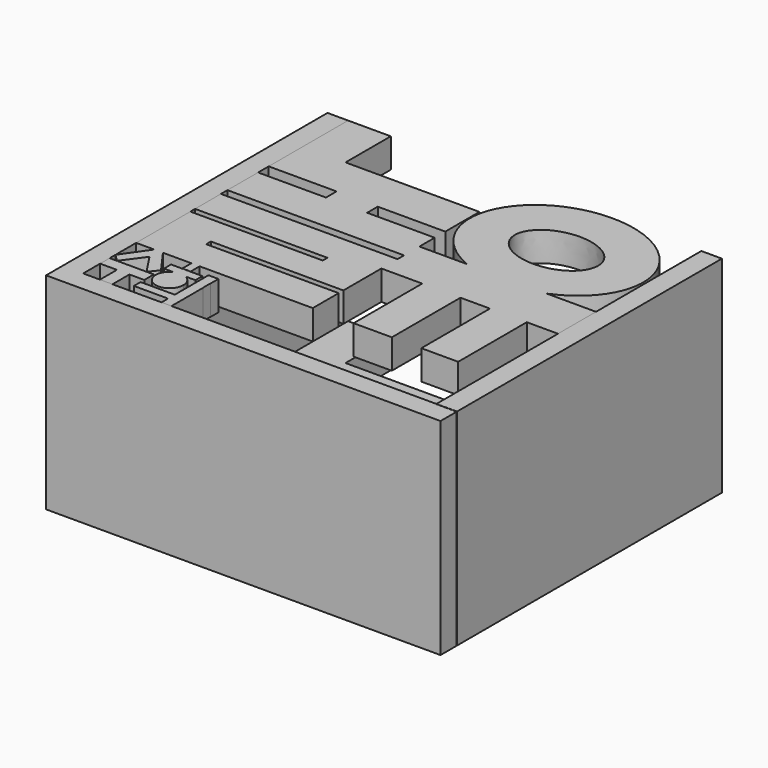
from build123d import *

# Parameters (mm, degrees)
F1_START = 25
F0_W     = 2.8042644262
F0_H     = 3.8227754831
F1_DEPTH = 10
F0_W_2   = 4.249099642
F0_H_2   = 7.2016502917
F0_W_3   = 0.595510006
F0_H_3   = 2.8584450483
F0_W_4   = 11.6058085859
F2_DEPTH = 35
F3_START = 50
F3_DEPTH = 10


with BuildPart() as f1:
    # F0 (on Top) → F1 (new body)
    with BuildSketch(Plane.XY.offset(F1_START)):
        Polygon((-45.5, 45), (-60, 45), (-60, 11.2783805579), (-36.944876343, 11.2783805579), (-36.944876343, 6.7783805579), (-60, 6.7783805579), (-60, -6.2216194421), (0, -6.2216194421), (0, 0.2832732425), (0, 6.7783805579), (-22.944876343, 6.7783805579), (-22.944876343, 11.2783805579), (0, 11.2783805579), (0, 25.7783805579), (-45.5, 25.7783805579), align=None)
        Polygon((0, -9), (-60, -9), (-60, -20), (-15, -20), (-15, -22), (-60, -22), (-60, -45), (-53.8670122623, -45), (-50.8926399052, -45), (-45, -45), (-41.241299361, -45), (-38.4370349348, -45), (-30, -45), (-15, -45), (0, -45), (0, -34), (-45, -34), (-45, -32), (0, -32), (0, -15.863308683), align=None)
        with BuildLine():
            Line((60, -15.863308683), (60, 0.2832732425))
            Line((60, 0.2832732425), (43.3172393359, 0.2832732425))
            add(Edge.make_bspline(
                [(16.2171352886, 0.2832732425), (29.7671873122, -5.3493892775), (43.3172393359, 0.2832732425)],
                knots=[4.2347657185, 4.2347657185, 4.2347657185, 5.1900122422, 5.1900122422, 5.1900122422], degree=2, weights=[1, 0.8880899447, 1]))
            Line((16.2171352886, 0.2832732425), (0, 0.2832732425))
            Line((0, 0.2832732425), (0, -6.2216194421))
            Line((0, -6.2216194421), (0, -9))
            Line((0, -9), (0, -15.863308683))
            Line((0, -15.863308683), (13.8803962618, -15.863308683))
            Line((13.8803962618, -15.863308683), (26.8623735756, -15.863308683))
            Line((26.8623735756, -15.863308683), (36.8775986135, -15.863308683))
            Line((36.8775986135, -15.863308683), (49.3936762214, -15.863308683))
            Line((49.3936762214, -15.863308683), (60, -15.863308683))
        make_face()
        with BuildLine():
            Line((16.2171352886, 0.2832732425), (43.3172393359, 0.2832732425))
            add(Edge.make_bspline(
                [(43.3172393359, 0.2832732425), (59.2449872969, 6.9043274505), (59.2449872969, 21.3082656264)],
                knots=[5.1900122422, 5.1900122422, 5.1900122422, 6.2831853072, 6.2831853072, 6.2831853072], degree=2, weights=[1, 0.8543037278, 1]))
            add(Edge.make_bspline(
                [(59.2449872969, 21.3082656264), (59.2449872969, 63.4241222907), (14.4453896272, 41.5333897572), (-30.3542080425, 19.6426572236), (16.2171352886, 0.2832732425)],
                knots=[0, 0, 0, 2.1173828593, 2.1173828593, 4.2347657185, 4.2347657185, 4.2347657185], degree=2, weights=[1, 0.4900132015, 1, 0.4900132015, 1]))
        make_face()
        with BuildLine():
            add(Edge.make_bspline(
                [(43.9308546484, 21.3082656264), (43.9308546484, 38.5360179263), (22.6853536442, 29.9221417764), (1.43985264, 21.3082656264), (22.6853536442, 12.6943894765), (43.9308546484, 4.0805133266), (43.9308546484, 21.3082656264)],
                knots=[0, 0, 0, 2.0943951024, 2.0943951024, 4.1887902048, 4.1887902048, 6.2831853072, 6.2831853072, 6.2831853072], degree=2, weights=[1, 0.5, 1, 0.5, 1, 0.5, 1]))
        make_face(mode=Mode.SUBTRACT)
        with BuildLine():
            add(Edge.make_bspline(
                [(16.2171352886, 0.2832732425), (29.7671873122, -5.3493892775), (43.3172393359, 0.2832732425)],
                knots=[4.2347657185, 4.2347657185, 4.2347657185, 5.1900122422, 5.1900122422, 5.1900122422], degree=2, weights=[1, 0.8880899447, 1]))
            Line((43.3172393359, 0.2832732425), (16.2171352886, 0.2832732425))
        make_face()
        Polygon((26.8623735756, -15.863308683), (13.8803962618, -15.863308683), (13.8803962618, -45), (15, -45), (26.8623735756, -45), align=None)
        Polygon((49.3936762214, -45), (49.3936762214, -15.863308683), (36.8775986135, -15.863308683), (36.8775986135, -45), (45, -45), align=None)
        with BuildLine():
            Line((60, -15.863308683), (60, 0.2832732425))
            Line((60, 0.2832732425), (43.3172393359, 0.2832732425))
            add(Edge.make_bspline(
                [(16.2171352886, 0.2832732425), (29.7671873122, -5.3493892775), (43.3172393359, 0.2832732425)],
                knots=[4.2347657185, 4.2347657185, 4.2347657185, 5.1900122422, 5.1900122422, 5.1900122422], degree=2, weights=[1, 0.8880899447, 1]))
            Line((16.2171352886, 0.2832732425), (0, 0.2832732425))
            Line((0, 0.2832732425), (0, -6.2216194421))
            Line((0, -6.2216194421), (0, -9))
            Line((0, -9), (0, -15.863308683))
            Line((0, -15.863308683), (13.8803962618, -15.863308683))
            Line((13.8803962618, -15.863308683), (26.8623735756, -15.863308683))
            Line((26.8623735756, -15.863308683), (36.8775986135, -15.863308683))
            Line((36.8775986135, -15.863308683), (49.3936762214, -15.863308683))
            Line((49.3936762214, -15.863308683), (60, -15.863308683))
        make_face()
        Polygon((-53.8670122623, -45), (-60, -53.7830591202), (-57.5495660305, -56.25), (-52.2580482066, -49.0230806172), (-47.4933609366, -56.25), (-45, -53.2165132463), (-50.8926399052, -45), align=None)
        with Locations((-39.8391671479, -46.9113877416)):
            Rectangle(F0_W, F0_H)
    extrude(amount=F1_DEPTH)


with BuildPart() as f1b:
    # F0 (on Top) → F1, piece 2 (new body)
    with BuildSketch(Plane.XY.offset(F1_START)):
        Polygon((-60, -56.25), (-60, -60.2983497083), (-54.2919225991, -60.2983497083), (-50.042822957, -60.2983497083), (-45, -60.2983497083), (-45, -56.25), (-47.4933609366, -56.25), (-57.5495660305, -56.25), align=None)
        with Locations((-52.1673727781, -63.8991748542)):
            Rectangle(F0_W_2, F0_H_2)
    extrude(amount=F1_DEPTH)


with BuildPart() as f1c:
    # F0 (on Top) → F1, piece 3 (new body)
    with BuildSketch(Plane.XY.offset(F1_START)):
        with BuildLine():
            Line((-37.6097518513, -51.9274957478), (-41.8682735851, -51.9274957478))
            ThreePointArc((-41.8682735851, -51.9274957478), (-42.2077062115, -60.1504925618), (-35.0244051495, -56.1338923872))
            ThreePointArc((-35.0244051495, -56.1338923872), (-35.7224125436, -53.6651988938), (-37.6097518513, -51.9274957478))
        make_face()
        with BuildLine():
            Line((-45, -48.9229299128), (-45, -51.9274957478))
            Line((-45, -51.9274957478), (-41.8682735851, -51.9274957478))
            ThreePointArc((-41.8682735851, -51.9274957478), (-39.7390127182, -51.4192848184), (-37.6097518513, -51.9274957478))
            Line((-37.6097518513, -51.9274957478), (-34.3307927251, -51.9274957478))
            Line((-34.3307927251, -51.9274957478), (-34.3307927251, -48.9229299128))
            Line((-34.3307927251, -48.9229299128), (-45, -48.9229299128))
        make_face()
        with BuildLine():
            ThreePointArc((-37.6097518513, -51.9274957478), (-39.7390127182, -51.4192848184), (-41.8682735851, -51.9274957478))
            Line((-41.8682735851, -51.9274957478), (-37.6097518513, -51.9274957478))
        make_face()
    extrude(amount=F1_DEPTH)


with BuildPart() as f1d:
    # F0 (on Top) → F1, piece 4 (new body)
    with BuildSketch(Plane.XY.offset(F1_START)):
        Polygon((-33.3941914141, -64.7091567516), (-33.3941914141, -67.5), (-30, -67.5), (-30, -54.1090965271), (-30.0593413413, -54.1090965271), (-30.0593413413, -50.8933477104), (-30, -50.8933477104), (-30, -47.5584976375), (-33.3941914141, -47.5584976375), (-33.3941914141, -61.8507117033), (-32.7986814082, -61.8507117033), (-32.7986814082, -64.7091567516), align=None)
        with Locations((-33.0964364111, -63.2799342275)):
            Rectangle(F0_W_3, F0_H_3)
        with Locations((-39.1970957071, -63.2799342275)):
            Rectangle(F0_W_4, F0_H_3)
    extrude(amount=F1_DEPTH)


with BuildPart() as f2:
    # F0 (on Top) → F2 (new body, symmetric)
    with BuildSketch(Plane.XY):
        Polygon((-60, 11.2783805579), (-60, 45), (-67, 45), (-67, -67.5), (-60, -67.5), (-60, -60.2983497083), (-60, -56.25), (-60, -53.7830591202), (-60, -45), (-60, -22), (-60, -20), (-60, -9), (-60, -6.2216194421), (-60, 6.7783805579), align=None)
        Polygon((-60, -67.5), (-67, -67.5), (-67, -74.5), (67, -74.5), (67, -67.6197633147), (60, -67.6197633147), (60, -67.5), (45, -67.5), (30, -67.5), (15, -67.5), (-15, -67.5), (-30, -67.5), (-33.3941914141, -67.5), (-45, -67.5), (-50.042822957, -67.5), (-54.2919225991, -67.5), align=None)
    extrude(amount=F2_DEPTH, both=True)


with BuildPart() as f2b:
    # F0 (on Top) → F2, piece 2 (new body, symmetric)
    with BuildSketch(Plane.XY):
        Polygon((67, 45), (60, 45), (60, 0.2832732425), (60, -15.863308683), (60, -45), (60, -67.5), (67, -67.5), align=None)
    extrude(amount=F2_DEPTH, both=True)


with BuildPart() as f3:
    # F1_face (on face) → F3 (new body)
    with BuildSketch(Plane(origin=(-3.5850456834, -3.1671407967, 25), x_dir=(1, 0, 0), z_dir=(0, 0, -1)).offset(F3_START)):
        with BuildLine():
            Line((-41.9149543166, -28.9455213546), (3.5850456834, -28.9455213546))
            Line((3.5850456834, -28.9455213546), (3.5850456834, -14.4455213546))
            Line((3.5850456834, -14.4455213546), (-19.3598306596, -14.4455213546))
            Line((-19.3598306596, -14.4455213546), (-19.3598306596, -9.9455213546))
            Line((-19.3598306596, -9.9455213546), (3.5850456834, -9.9455213546))
            Line((3.5850456834, -9.9455213546), (3.5850456834, -3.4504140392))
            Line((3.5850456834, -3.4504140392), (19.802180972, -3.4504140392))
            add(Edge.make_bspline(
                [(46.9022850193, -3.4504140392), (52.3451388026, -5.7129705559), (57.5426912766, -9.3262859045), (61.223618178, -14.1851937838), (62.8300329803, -19.5532711917), (62.8300329803, -32.7303367264), (57.8298847199, -45.2516703649), (42.7295689922, -52.0688244441), (26.8113930228, -48.9912297267), (9.2494775985, -40.409831381), (-1.4708030001, -30.4708956345), (-0.8736119478, -16.5669809663), (10.6739517544, -7.2449555287), (19.802180972, -3.4504140392)],
                knots=[5.1900122422, 5.1900122422, 5.1900122422, 5.1900122422, 5.1900122422, 5.1900122422, 6.2831853072, 6.2831853072, 6.2831853072, 6.2831853072, 8.1165496981, 8.1165496981, 8.1165496981, 8.1165496981, 9.9499140891, 9.9499140891, 9.9499140891, 9.9499140891, 9.9499140891, 9.9499140891], degree=5, weights=[1, 1, 0.9915090385, 0.9915090385, 1, 1, 0.8959653861, 0.8959653861, 1, 1, 0.8959653861, 0.8959653861, 1, 1]))
            Line((46.9022850193, -3.4504140392), (63.5850456834, -3.4504140392))
            Line((63.5850456834, -3.4504140392), (63.5850456834, 12.6961678864))
            Line((63.5850456834, 12.6961678864), (52.9787219048, 12.6961678864))
            Line((52.9787219048, 12.6961678864), (52.9787219048, 41.8328592033))
            Line((52.9787219048, 41.8328592033), (40.4626442969, 41.8328592033))
            Line((40.4626442969, 41.8328592033), (40.4626442969, 12.6961678864))
            Line((40.4626442969, 12.6961678864), (30.447419259, 12.6961678864))
            Line((30.447419259, 12.6961678864), (30.447419259, 41.8328592033))
            Line((30.447419259, 41.8328592033), (17.4654419452, 41.8328592033))
            Line((17.4654419452, 41.8328592033), (17.4654419452, 12.6961678864))
            Line((17.4654419452, 12.6961678864), (3.5850456834, 12.6961678864))
            Line((3.5850456834, 12.6961678864), (3.5850456834, 28.8328592033))
            Line((3.5850456834, 28.8328592033), (-41.4149543166, 28.8328592033))
            Line((-41.4149543166, 28.8328592033), (-41.4149543166, 30.8328592033))
            Line((-41.4149543166, 30.8328592033), (3.5850456834, 30.8328592033))
            Line((3.5850456834, 30.8328592033), (3.5850456834, 41.8328592033))
            Line((3.5850456834, 41.8328592033), (-34.8519892513, 41.8328592033))
            Line((-34.8519892513, 41.8328592033), (-34.8519892513, 45.6556346865))
            Line((-34.8519892513, 45.6556346865), (-37.6562536776, 45.6556346865))
            Line((-37.6562536776, 45.6556346865), (-37.6562536776, 41.8328592033))
            Line((-37.6562536776, 41.8328592033), (-47.3075942218, 41.8328592033))
            Line((-47.3075942218, 41.8328592033), (-41.4149543166, 50.0493724496))
            Line((-41.4149543166, 50.0493724496), (-43.9083152532, 53.0828592033))
            Line((-43.9083152532, 53.0828592033), (-48.6730025232, 45.8559398205))
            Line((-48.6730025232, 45.8559398205), (-53.9645203471, 53.0828592033))
            Line((-53.9645203471, 53.0828592033), (-56.4149543166, 50.6159183235))
            Line((-56.4149543166, 50.6159183235), (-50.2819665789, 41.8328592033))
            Line((-50.2819665789, 41.8328592033), (-56.4149543166, 41.8328592033))
            Line((-56.4149543166, 41.8328592033), (-56.4149543166, 18.8328592033))
            Line((-56.4149543166, 18.8328592033), (-11.4149543166, 18.8328592033))
            Line((-11.4149543166, 18.8328592033), (-11.4149543166, 16.8328592033))
            Line((-11.4149543166, 16.8328592033), (-56.4149543166, 16.8328592033))
            Line((-56.4149543166, 16.8328592033), (-56.4149543166, 5.8328592033))
            Line((-56.4149543166, 5.8328592033), (3.5850456834, 5.8328592033))
            Line((3.5850456834, 5.8328592033), (3.5850456834, 3.0544786454))
            Line((3.5850456834, 3.0544786454), (-56.4149543166, 3.0544786454))
            Line((-56.4149543166, 3.0544786454), (-56.4149543166, -9.9455213546))
            Line((-56.4149543166, -9.9455213546), (-33.3598306596, -9.9455213546))
            Line((-33.3598306596, -9.9455213546), (-33.3598306596, -14.4455213546))
            Line((-33.3598306596, -14.4455213546), (-56.4149543166, -14.4455213546))
            Line((-56.4149543166, -14.4455213546), (-56.4149543166, -48.1671407967))
            Line((-56.4149543166, -48.1671407967), (-41.9149543166, -48.1671407967))
            Line((-41.9149543166, -48.1671407967), (-41.9149543166, -28.9455213546))
        make_face()
        with BuildLine():
            add(Edge.make_bspline(
                [(47.5159003318, -24.4754064231), (47.5159003318, -41.703158723), (26.2703993276, -33.089282573), (5.0248983234, -24.4754064231), (26.2703993276, -15.8615302732), (47.5159003318, -7.2476541232), (47.5159003318, -24.4754064231)],
                knots=[0, 0, 0, 2.0943951024, 2.0943951024, 4.1887902048, 4.1887902048, 6.2831853072, 6.2831853072, 6.2831853072], degree=2, weights=[1, 0.5, 1, 0.5, 1, 0.5, 1]))
        make_face(mode=Mode.SUBTRACT)
    extrude(amount=F3_DEPTH)


solid = Compound([f1.part, f1b.part, f1c.part, f1d.part, f2.part, f2b.part, f3.part])
